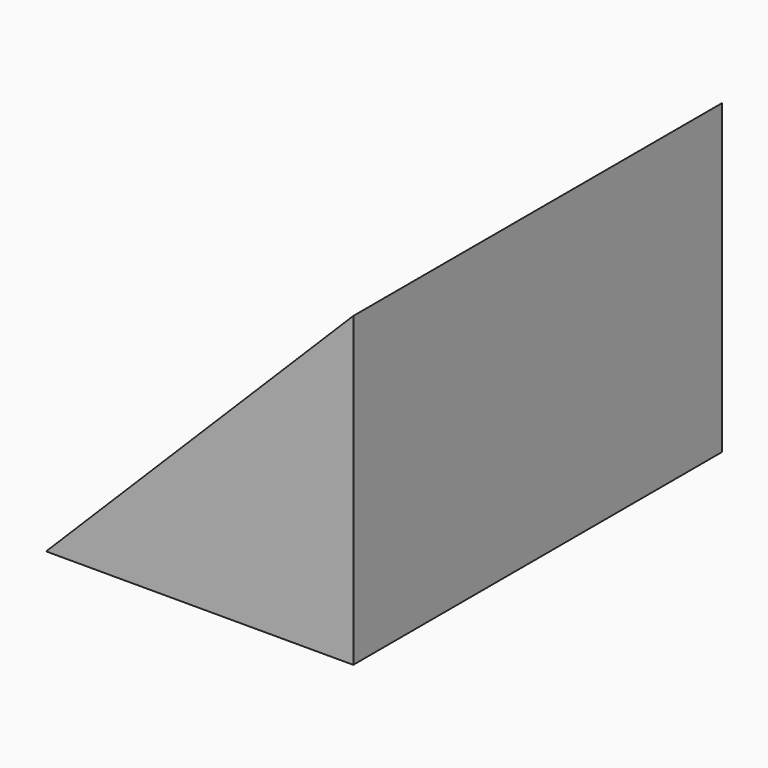
from build123d import *

# Parameters (mm, degrees)
F1_DEPTH = 38.1


with BuildPart() as f1:
    # F0 (on Front) → F1 (new body)
    with BuildSketch(Plane.XZ):
        Polygon((12.7, 12.7), (0, 0), (12.7, 0), align=None)
        Polygon((25.4, 25.4), (12.7, 12.7), (12.7, 0), (25.4, 0), align=None)
    extrude(amount=F1_DEPTH)


solid = f1.part
